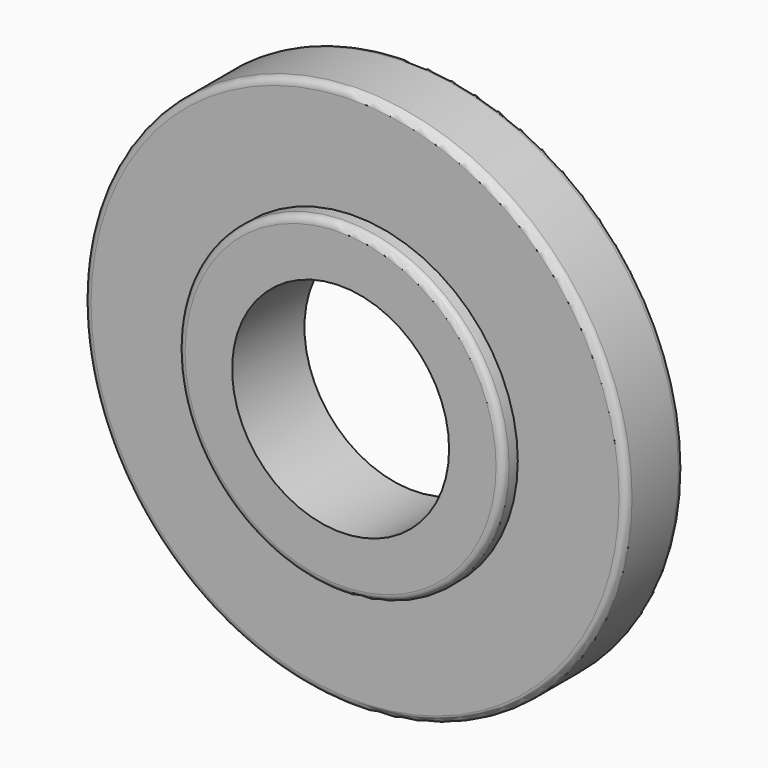
from build123d import *

# Parameters (mm, degrees)
F0_R     = 7.5
F0_R_2   = 3
F1_DEPTH = 2
F2_R     = 4.5
F2_R_2   = 3
F3_DEPTH = 0.5
F4_R     = 0.2


with BuildPart() as f1:
    # F0 (on Front) → F1 (new body)
    with BuildSketch(Plane.XZ):
        Circle(F0_R)
        Circle(F0_R_2, mode=Mode.SUBTRACT)
    extrude(amount=F1_DEPTH)

    # F2 (on face) → F3 (join)
    with BuildSketch(Plane.XZ.offset(2)):
        Circle(F2_R)
        Circle(F2_R_2, mode=Mode.SUBTRACT)
    extrude(amount=F3_DEPTH)

    # F4
    f4_edges = [f1.edges().sort_by_distance(p)[0] for p in [
        (-7.5, -2, 0),
        (-7.5, 0, 0),
        (-4.5, -2.5, 0),
    ]]
    fillet(f4_edges, radius=F4_R)


solid = f1.part
